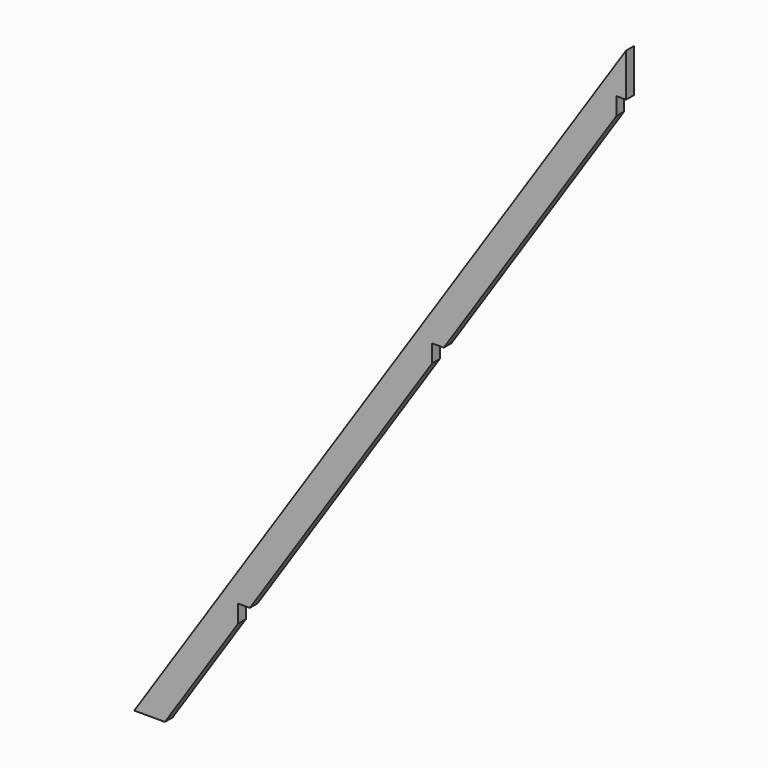
from build123d import *

# Parameters (mm, degrees)
F1_DEPTH = 69.135625
F3_DEPTH = 69.136625


with BuildPart() as f1:
    # F0 (on Front) → F1 (new body)
    with BuildSketch(Plane.XZ):
        Polygon((3543.21297, 5338.015911), (0, 0), (221.025277, 0), (3543.21297, 5005.031002), align=None)
    extrude(amount=F1_DEPTH)

    # F2 (on face) → F3 (cut, through all)
    with BuildSketch(Plane.XZ.offset(69.135625)):
        Polygon((3543.21297, 5026.103333), (3473.36297, 5026.103333), (3473.36297, 4899.798713), (3543.21297, 5005.031002), align=None)
        Polygon((2146.21297, 2900.385222), (2230.050145, 3026.689842), (2146.21297, 3026.689842), align=None)
        Polygon((749.213097, 795.739633), (833.050272, 922.044253), (749.213097, 922.044253), align=None)
    extrude(amount=-F3_DEPTH, mode=Mode.SUBTRACT)


solid = f1.part
